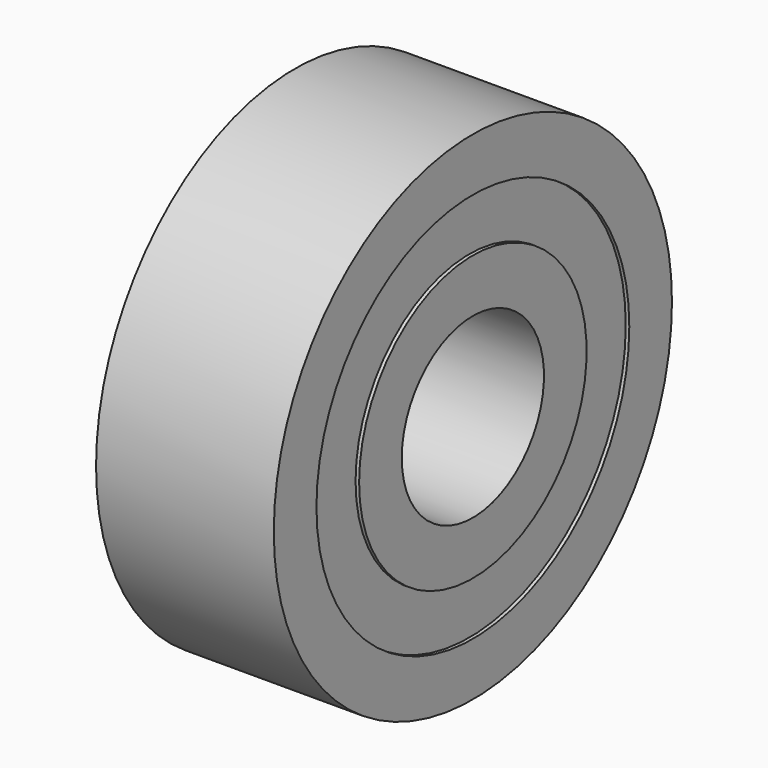
from build123d import *


with BuildPart() as part:
    # Sketch → Revolution (revolve)
    with BuildSketch(Plane.YX):
        Polygon((-7, 2.5), (-5.5, 2.5), (-5.5, 2.4), (-4, 2.4), (-4, 2.5), (-2.5, 2.5), (-2.5, -2.5), (-4, -2.5), (-4, -2.4), (-5.5, -2.4), (-5.5, -2.5), (-7, -2.5), align=None)
        with BuildLine():
            ThreePointArc((-5.5, 1.299038), (-6.25, 0), (-5.5, -1.299038))
            Line((-5.5, -1.299038), (-5.5, -1.4))
            Line((-4, -1.4), (-5.5, -1.4))
            Line((-4, -1.4), (-4, -1.299038))
            ThreePointArc((-4, -1.299038), (-3.25, 0), (-4, 1.299038))
            Line((-4, 1.299038), (-4, 1.4))
            Line((-5.5, 1.4), (-4, 1.4))
            Line((-5.5, 1.4), (-5.5, 1.299038))
        make_face(mode=Mode.SUBTRACT)
    revolve(axis=Axis((0, 0, 0), (1, 0, 0)))


solid = part.part
